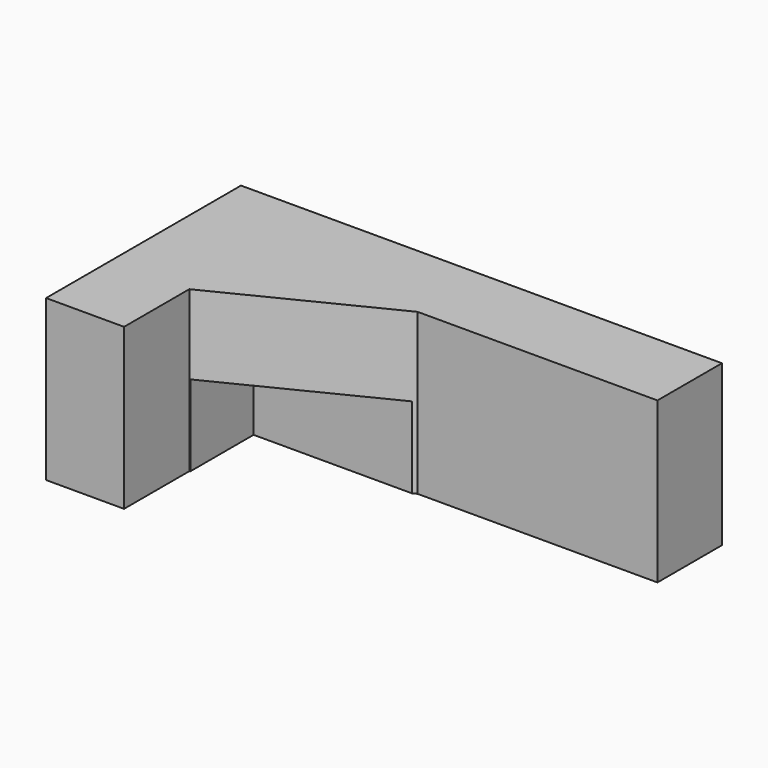
from build123d import *

# Parameters (mm, degrees)
F1_DEPTH = 50.8
F3_DEPTH = 25.654


with BuildPart() as f1:
    # F0 (on Top) → F1 (new body)
    with BuildSketch(Plane.XY):
        Polygon((0, 77.227183), (0, 0), (24.718747, 0), (24.718747, 25.8386), (24.718747, 51.677201), (76.44958, 51.677201), (152.468666, 51.677201), (152.468666, 77.227183), align=None)
        Polygon((24.718747, 51.677201), (24.718747, 25.8386), (76.44958, 51.677201), align=None)
    extrude(amount=F1_DEPTH)

    # F2 (on Top) → F3 (cut)
    with BuildSketch(Plane.XY):
        Polygon((24.965165, 51.016703), (24.965165, 24.166949), (77.130407, 51.016703), align=None)
    extrude(amount=F3_DEPTH, mode=Mode.SUBTRACT)


solid = f1.part
